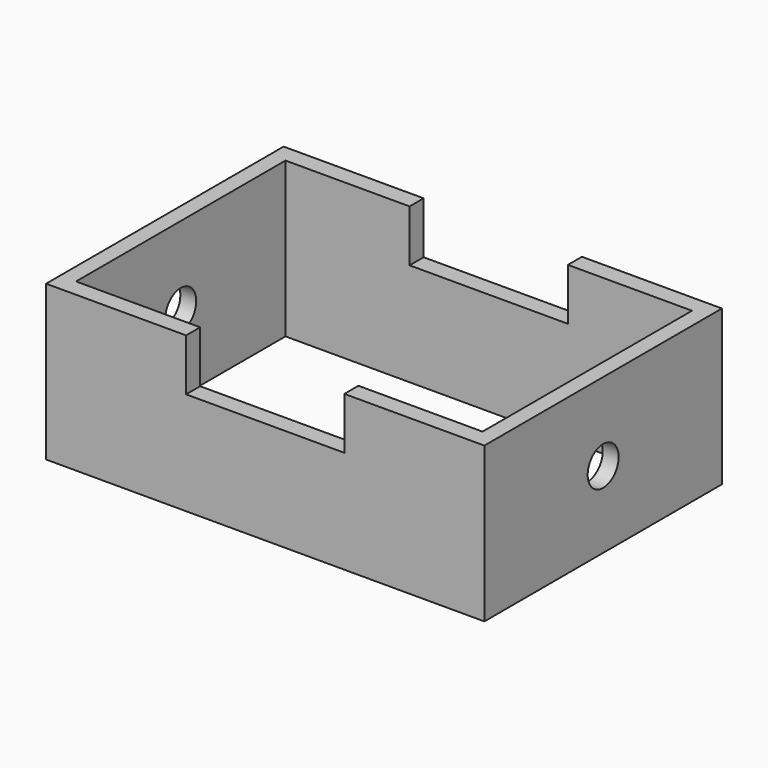
from build123d import *

# Parameters (mm, degrees)
F0_W     = 143.8258737326
F0_H     = 97.4392816424
F0_W_2   = 133.3957463503
F0_H_2   = 85.9112516046
F1_DEPTH = 50.8
F2_W     = 51.9433170557
F2_H     = 17.0282212257
F3_DEPTH = 97.4402816424
F5_D     = 12.7


with BuildPart() as f1:
    # F0 (on Top) → F1 (new body)
    with BuildSketch(Plane.XY):
        Rectangle(F0_W, F0_H)
        Rectangle(F0_W_2, F0_H_2, mode=Mode.SUBTRACT)
    extrude(amount=F1_DEPTH)

    # F2 (on face) → F3 (cut, through all)
    with BuildSketch(Plane(origin=(0, 48.7196408212, 0), x_dir=(-1, 0, 0), z_dir=(0, 1, 0))):
        with Locations((0, 42.2858893871)):
            Rectangle(F2_W, F2_H)
    extrude(amount=-F3_DEPTH, mode=Mode.SUBTRACT)

    # F5 (through all)
    with Locations(Plane(origin=(-71.9129368663, 0, 0), x_dir=(0, -1, 0), z_dir=(-1, 0, 0))):
        with Locations((0, 25.1146312803)):
            Hole(F5_D / 2)


solid = f1.part
